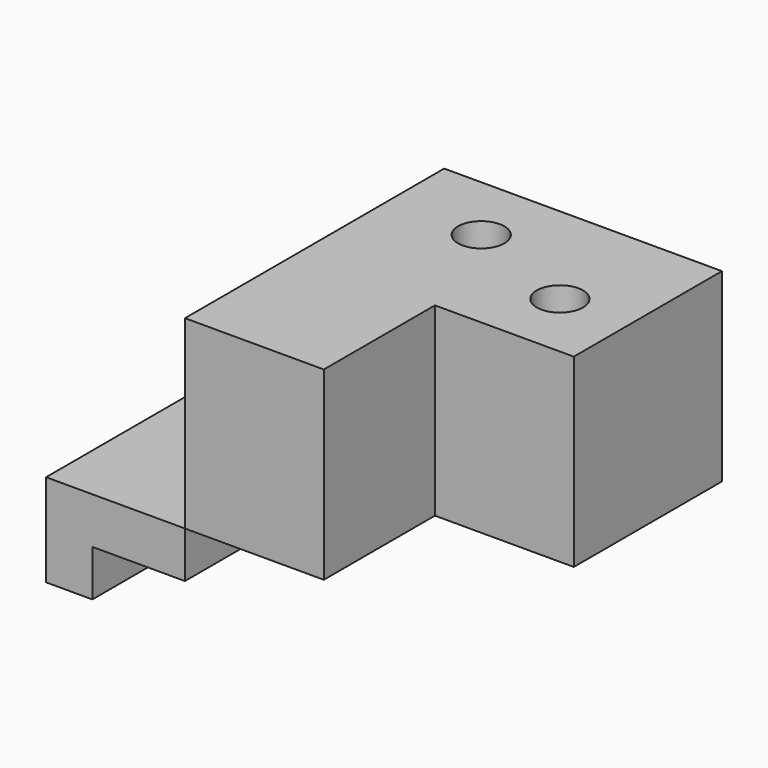
from build123d import *

# Parameters (mm, degrees)
F0_R     = 3.175
F0_W     = 19.05
F0_H     = 6.35
F3_DEPTH = 25.4
F1_W     = 19.05
F1_H     = 19.05
F1_H_2   = 6.35
F4_DEPTH = 25.4
F2_W     = 19.05
F2_H     = 6.35
F5_DEPTH = 25.4


with BuildPart() as f3:
    # F0 (on Top) → F3 (new body)
    with BuildSketch(Plane.XY):
        Polygon((0, 19.05), (0, 0), (19.05, 0), (19.05, 12.7), (19.05, 19.05), align=None)
        with Locations((12.7, 9.525)):
            Circle(F0_R, mode=Mode.SUBTRACT)
        Polygon((19.05, 12.7), (19.05, 0), (19.05, -6.35), (38.1, -6.35), (38.1, 12.7), align=None)
        with Locations((28.575, 3.175)):
            Circle(F0_R, mode=Mode.SUBTRACT)
        with Locations((28.575, 15.875)):
            Rectangle(F0_W, F0_H)
    extrude(amount=F3_DEPTH)

    # F1 (on Front) → F4 (join)
    with BuildSketch(Plane.XZ):
        with Locations((9.525, 9.525)):
            Rectangle(F1_W, F1_H)
        Polygon((0, -6.35), (0, 0), (-19.05, 0), (-19.05, -12.7), (-12.7, -12.7), (-12.7, -6.35), align=None)
        with Locations((9.525, 22.225)):
            Rectangle(F1_W, F1_H_2)
    extrude(amount=F4_DEPTH)

    # F2 (on Right) → F5 (join)
    with BuildSketch(Plane.YZ):
        Polygon((0, 12.7), (0, 0), (6.35, 0), (25.4, 0), (25.4, 19.05), (19.05, 19.05), (19.05, 12.7), align=None)
        with Locations((15.875, -3.175)):
            Rectangle(F2_W, F2_H)
    extrude(amount=F5_DEPTH)


solid = f3.part
